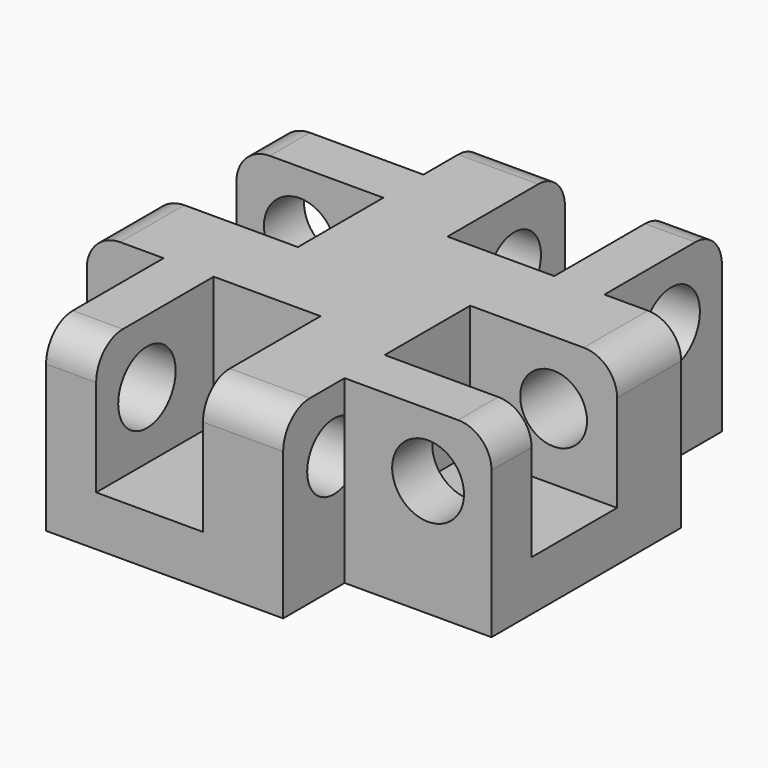
from build123d import *

# Parameters (mm, degrees)
F0_W      = 13
F0_H      = 13
F1_DEPTH  = 5
F2_W      = 3.2
F2_H      = 4
F2_W_2    = 4
F2_H_2    = 3.2
F3_DEPTH  = 3.5
F4_W      = 4
F4_H      = 1.9
F4_W_2    = 1.9
F4_H_2    = 4
F5_DEPTH  = 5
F6_W      = 6.5
F6_H      = 6.5
F7_DEPTH  = 5
F10_DEPTH = 0.4
F11_DEPTH = 0.4
F12_DEPTH = 0.4
F8_R      = 1.075
F13_DEPTH = 1.5
F9_R      = 1
F14_DEPTH = 2.4
F15_COUNT = 4
F16_R     = 1


with BuildPart() as f1:
    # F0 (on Top) → F1 (new body)
    with BuildSketch(Plane.XY):
        Rectangle(F0_W, F0_H)
    extrude(amount=F1_DEPTH)

    # F2 (on face) → F3 (cut)
    with BuildSketch(Plane.XY.offset(5)):
        with Locations((1.5, 4.5)):
            Rectangle(F2_W, F2_H)
        with Locations((-4.5, 1.5)):
            Rectangle(F2_W_2, F2_H_2)
        with Locations((-1.5, -4.5)):
            Rectangle(F2_W, F2_H)
        with Locations((4.5, -1.5)):
            Rectangle(F2_W_2, F2_H_2)
    extrude(amount=-F3_DEPTH, mode=Mode.SUBTRACT)

    # F4 (on face) → F5 (cut, through all)
    with BuildSketch(Plane.XY.offset(5)):
        with Locations((-4.5, 5.55)):
            Rectangle(F4_W, F4_H)
        with Locations((-5.55, -4.5)):
            Rectangle(F4_W_2, F4_H_2)
        with Locations((4.5, -5.55)):
            Rectangle(F4_W, F4_H)
        with Locations((5.55, 4.5)):
            Rectangle(F4_W_2, F4_H_2)
    extrude(amount=-F5_DEPTH, mode=Mode.SUBTRACT)

    # F6 (on Top) → F7 (intersect, through all)
    with BuildSketch(Plane.XY):
        with Locations((-3.25, 3.25)):
            Rectangle(F6_W, F6_H)
    extrude(amount=F7_DEPTH, mode=Mode.INTERSECT)

    # F10 (add): a face of the model
    f10_faces = [f1.faces().sort_by_distance(p)[0] for p in [
        (-2.164416476, 3.3918764302, 5),
    ]]
    extrude(f10_faces, amount=F10_DEPTH)

    # F11 (add): a face of the model
    f11_faces = [f1.faces().sort_by_distance(p)[0] for p in [
        (-6.5, 2.3, 0.0709365914),
    ]]
    extrude(f11_faces, amount=F11_DEPTH)

    # F12 (add): a face of the model
    f12_faces = [f1.faces().sort_by_distance(p)[0] for p in [
        (-1.2856979405, 6.5, 2.6776887872),
    ]]
    extrude(f12_faces, amount=F12_DEPTH)

    # F8 (on face) → F13 (cut, through all)
    with BuildSketch(Plane(origin=(0, 4.6, 0), x_dir=(-1, 0, 0), z_dir=(0, 1, 0))):
        with Locations((5, 3.5)):
            Circle(F8_R)
    extrude(amount=-F13_DEPTH, mode=Mode.SUBTRACT)

    # F9 (on face) → F14 (cut, through all)
    with BuildSketch(Plane.YZ.offset(-0.1)):
        with Locations((5, 3.5)):
            Circle(F9_R)
    extrude(amount=-F14_DEPTH, mode=Mode.SUBTRACT)

    # F15: F1 ×4 about axis
    f15_axis = Axis((0, 0, 2.5), (0, 0, 1))


with BuildPart() as f1_1:
    add(f1.part)
    for i in range(1, F15_COUNT):
        add(f1.part.rotate(f15_axis, i * 360 / F15_COUNT))

    # F16
    f16_edges = [f1_1.edges().sort_by_distance(p)[0] for p in [
        (6.9, 1.3, 5.4),
        (-6.9, 3.85, 5.4),
        (-1.3, 6.9, 5.4),
        (-3.85, -6.9, 5.4),
        (-6.9, -1.3, 5.4),
        (6.9, -3.85, 5.4),
        (1.3, -6.9, 5.4),
        (3.85, 6.9, 5.4),
    ]]
    fillet(f16_edges, radius=F16_R)


solid = f1_1.part
